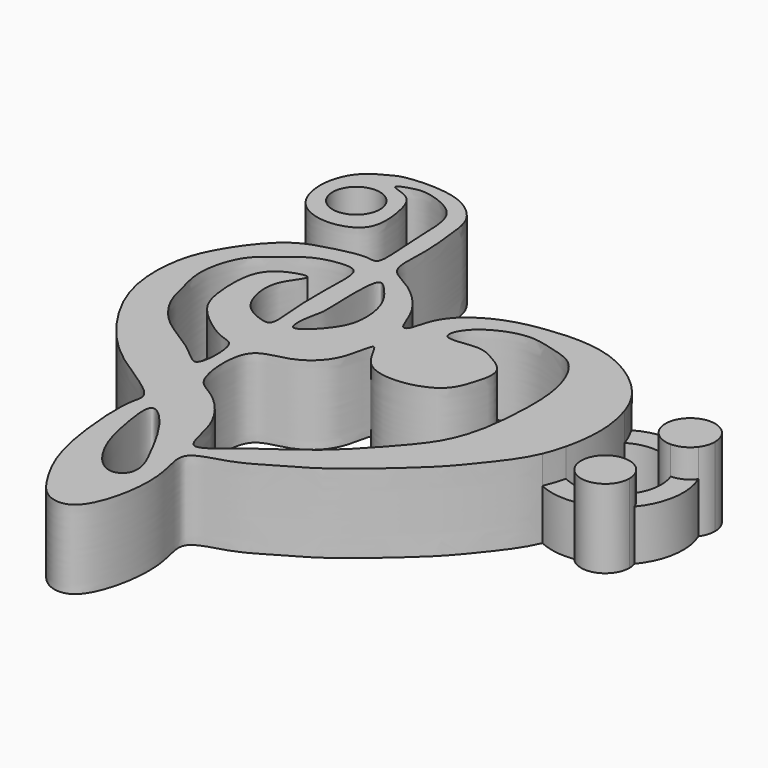
from build123d import *

# Parameters (mm, degrees)
F0_R     = 1.905
F1_DEPTH = 6.35
F2_DEPTH = 4.064


with BuildPart() as f1:
    # F0 (on Top) → F1 (new body)
    with BuildSketch(Plane.XY):
        with BuildLine():
            add(Edge.make_bspline(
                [(-13.0686489865, 11.6218319163), (-12.7707330076, 11.961798695), (-13.1510446007, 14.8679853831), (-13.0424482701, 17.9501966027), (-13.727905646, 19.9168686636), (-16.0918095447, 20.8480597025), (-17.2623130573, 20.8592815915), (-19.1906763862, 20.1534250339), (-16.7723895054, 19.8157318864), (-16.1507483292, 17.6667445326), (-15.8565671423, 14.4852164796), (-19.0830796184, 13.4633520878), (-21.9024858498, 14.6520913597), (-22.639414685, 17.8389155952), (-21.552502801, 20.3658088456), (-19.7462208625, 21.2348963002), (-18.9402522512, 21.7214886395), (-14.5828082764, 21.9866575573), (-12.0120729222, 19.7486253219), (-11.7943656291, 17.5624606189), (-11.3884073963, 14.4590138313), (-11.8153693787, 11.1950337983), (-9.5526412523, 10.4055979731), (-6.886236355, 7.9193365313), (-6.3591051489, 5.48579156), (-5.6976828179, 5.5802281906), (-5.4126557087, 7.4145140879), (-4.1655100341, 9.0922831468), (-1.6661650496, 10.5116266525), (1.233701337, 11.0393527576), (4.1116716879, 11.2210594468), (7.2322592185, 10.5704836127), (9.8548458465, 8.6970342261), (10.8299503671, 7.4429476047), (11.0950684281, 7.015597002)],
                knots=[0, 0, 0, 0, 0.0174055412, 0.0360201727, 0.0498159963, 0.0650524651, 0.0769089776, 0.0878328669, 0.0998121797, 0.1148348188, 0.1316272092, 0.1483540463, 0.1651085789, 0.1824021566, 0.1987259941, 0.2122148314, 0.2220664777, 0.2424297438, 0.2603004645, 0.2747249693, 0.2928628236, 0.309969569, 0.3242914765, 0.3438453151, 0.3586554069, 0.3642041694, 0.3771717261, 0.3919044019, 0.4087139116, 0.4260081171, 0.442995333, 0.4608586478, 0.4800941687, 0.4892831772, 0.4892831772, 0.4892831772, 0.4892831772], degree=3))
            add(Edge.make_bspline(
                [(11.4597279959, -2.4118516051), (11.3801153672, -2.5988769232), (10.8415906764, -3.7533572985), (9.3782470502, -5.6176152362), (7.6197128741, -7.8042819073), (4.9700188396, -10.1772388926), (2.0159809222, -12.6953096881), (-0.7817555096, -14.1750721076), (-3.0735086367, -15.6649063041), (-6.6448545126, -16.2604339945), (-5.3517281249, -19.3623385219), (-5.5755042332, -23.4307961024), (-6.9722488348, -26.7371207582), (-9.3401460238, -26.5753856706), (-10.8397763768, -24.5441683261), (-12.4870908457, -21.432961057), (-13.2193584866, -16.9377361119), (-13.3534050362, -13.1064532395), (-12.6633761563, -11.6244508266), (-16.5980449076, -9.3325064599), (-19.6810790288, -6.8342604871), (-23.1547289411, -1.5451237152), (-23.202456029, 3.4404371704), (-22.1742470854, 6.426380904), (-19.3943471923, 10.2984697231), (-16.6939297674, 11.1081112535), (-14.0490237493, 11.7781712589), (-13.2277306845, 11.4402958582), (-13.0686489865, 11.6218319163)],
                knots=[0.5460824632, 0.5460824632, 0.5460824632, 0.5460824632, 0.549511558, 0.5675100943, 0.5843577714, 0.6033210365, 0.6232567239, 0.641012514, 0.6580943552, 0.6749467864, 0.6909728326, 0.7119519288, 0.7298992113, 0.743324066, 0.7587990032, 0.7776744973, 0.799599726, 0.8190546342, 0.8301274451, 0.8500224241, 0.8710505929, 0.8959266034, 0.9178527602, 0.9358451637, 0.9571594825, 0.9742491387, 0.9907057585, 1, 1, 1, 1], degree=3))
            add(Edge.make_bspline(
                [(12.0093829859, -0.7091933699), (11.8728345677, -1.286852004), (11.6949503278, -1.8592692802), (11.4597279959, -2.4118516051)],
                knots=[0.5359509089, 0.5359509089, 0.5359509089, 0.5359509089, 0.5460824632, 0.5460824632, 0.5460824632, 0.5460824632], degree=3))
            add(Edge.make_bspline(
                [(11.8463626646, 5.4053428165), (12.1056389146, 4.6466382374), (12.4816565418, 2.8232541921), (12.321965699, 0.7757781398), (12.0669719872, -0.4655670846), (12.0093829859, -0.7091933699)],
                knots=[0.5000560772, 0.5000560772, 0.5000560772, 0.5000560772, 0.5142619534, 0.5316779477, 0.5359509089, 0.5359509089, 0.5359509089, 0.5359509089], degree=3))
            add(Edge.make_bspline(
                [(11.0950684281, 7.015597002), (11.3161119517, 6.6592912767), (11.5779458047, 6.1368405532), (11.7895733016, 5.5715221321), (11.8463626646, 5.4053428165)],
                knots=[0.4892831772, 0.4892831772, 0.4892831772, 0.4892831772, 0.4969445595, 0.5000560772, 0.5000560772, 0.5000560772, 0.5000560772], degree=3))
        make_face()
        with BuildLine():
            add(Edge.make_bspline(
                [(-11.6512700915, -12.9060419276), (-11.9941468043, -13.1681710536), (-11.5320664777, -16.1205152908), (-10.9199947216, -18.5300988368), (-9.597431014, -20.714917878), (-8.1666103116, -21.4484548164), (-7.0995100758, -20.7580851205), (-7.0720709083, -19.3864704003), (-8.0014077681, -17.5249735483), (-9.7695779559, -14.1060350316), (-11.3776613031, -12.6968681054), (-11.6512700915, -12.9060419276)],
                knots=[0, 0, 0, 0, 0.1295994097, 0.2604455958, 0.3793498417, 0.4699367619, 0.5465175339, 0.6293808269, 0.7394813862, 0.896582252, 1, 1, 1, 1], degree=3))
        make_face(mode=Mode.SUBTRACT)
        with BuildLine():
            add(Edge.make_bspline(
                [(-6.3199140131, -15.2518386021), (-6.8593336291, -15.045464478), (-6.9695773684, -11.9531994053), (-9.8649973588, -8.8540384181), (-11.9161160424, -8.2829265335), (-12.288764129, -2.6066430249), (-9.0806541646, -2.5780797933), (-6.3392370923, -0.6246257895), (-6.1087788053, 3.615634008), (-4.9122455372, -0.3133942048), (-1.222739141, -0.5481987236), (1.3469504829, 0.6327144061), (2.0075048028, 2.4950696166), (2.6105338, 4.7491119398), (0.5911029061, 5.9132897747), (-0.6912636487, 6.5908014949), (-3.7829979831, 5.7694448939), (-2.8339605437, 8.3595775213), (0.6150763545, 9.8528204056), (2.8451794906, 9.1516540061), (5.0089863324, 8.6572904049), (6.3185328043, 6.4323801531), (6.8928079508, 3.6977151001), (6.7361435566, -0.0088301254), (6.3983668063, -2.49386758), (5.5499256641, -5.0290393191), (3.5430185466, -7.3854801384), (1.417011187, -9.7431285513), (-0.9661134496, -11.7463490865), (-3.7412707511, -13.4850162448), (-5.8033912793, -15.4494527111), (-6.3199140131, -15.2518386021)],
                knots=[0, 0, 0, 0, 0.0367480799, 0.0797971829, 0.1092052072, 0.15332524, 0.1866739045, 0.22534854, 0.2585929149, 0.2901400147, 0.3293363935, 0.3634619148, 0.3924275789, 0.4223259456, 0.451733962, 0.4784187504, 0.5101739794, 0.5368587701, 0.5770486926, 0.608957374, 0.6390625819, 0.6712695106, 0.7067047864, 0.7469429386, 0.7803249129, 0.8139119634, 0.850721139, 0.8881697465, 0.9247723049, 0.9648117752, 1, 1, 1, 1], degree=3))
        make_face(mode=Mode.SUBTRACT)
        with BuildLine():
            add(Edge.make_bspline(
                [(-15.1277827099, 7.1736029349), (-15.0056093076, 6.9577332912), (-16.5558726976, 5.3986340723), (-16.1504621438, 2.7901502426), (-15.2684237613, 1.4175927395), (-13.85400103, 0.7981625476), (-12.7346268175, 0.6152542547), (-13.2322675757, 3.7415759168), (-13.1307600013, 7.4293288525), (-13.0886486581, 9.7855748474), (-14.4315260528, 10.0354121912), (-16.7005347728, 9.5729110347), (-18.0367032607, 8.213930896), (-20.1549953784, 6.971358812), (-21.0593200446, 3.5088042097), (-20.4179841431, 1.33084421), (-19.9594183886, -0.8491484934), (-18.3142495151, -3.0880201367), (-16.1205334344, -4.318306911), (-14.418130418, -5.5471613209), (-12.9764827126, -7.0012105866), (-12.8644247041, -2.7108947452), (-14.380148848, -2.7529063392), (-17.5424193631, -0.4511327674), (-18.2848119967, 1.7279221376), (-18.4215235365, 5.5067497663), (-16.8552891086, 6.9383100498), (-15.2333133888, 7.3600663519), (-15.1277827099, 7.1736029349)],
                knots=[0, 0, 0, 0, 0.0364646976, 0.0788891786, 0.1117744755, 0.1439693508, 0.165517956, 0.2076173974, 0.2611260696, 0.2978148768, 0.3245680045, 0.3637236926, 0.3996897196, 0.4397297688, 0.4874520606, 0.5267783033, 0.565294431, 0.6081007788, 0.6496281737, 0.6891214302, 0.7161705298, 0.7614106674, 0.7909062222, 0.8406647315, 0.881423559, 0.9301436777, 0.9685026018, 1, 1, 1, 1], degree=3))
        make_face(mode=Mode.SUBTRACT)
        with BuildLine():
            add(Edge.make_bspline(
                [(-11.2136574462, 9.3703055754), (-11.6513975829, 8.8545701437), (-11.3191358553, 4.119537716), (-11.5137287981, 3.8710349732), (-12.1621521498, 0.0832837894), (-9.3910031023, 2.7968929016), (-8.6893962792, 4.5953920409), (-8.9746796231, 7.1866660965), (-10.2292240733, 8.8393817463), (-11.027093781, 9.5901106249), (-11.2136574462, 9.3703055754)],
                knots=[0, 0, 0, 0, 0.1896588816, 0.2702065822, 0.400399582, 0.5306714703, 0.6579100379, 0.7909034848, 0.9191678964, 1, 1, 1, 1], degree=3))
        make_face(mode=Mode.SUBTRACT)
        with Locations((-19.2378386855, 17.2088313848)):
            Circle(F0_R, mode=Mode.SUBTRACT)
    extrude(amount=F1_DEPTH)



with BuildPart() as f1b:
    # F0 (on Top) → F1, piece 2 (new body)
    with BuildSketch(Plane.XY):
        with BuildLine():
            ThreePointArc((18.9468186349, 5.6433514692), (17.854770444, 7.4235418204), (15.7729848939, 7.2567609431))
            ThreePointArc((15.7729848939, 7.2567609431), (17.4349088396, 6.1250716437), (18.5549745907, 4.4552918424))
            ThreePointArc((18.5549745907, 4.4552918424), (18.8463293089, 5.0178461871), (18.9468186349, 5.6433514692))
        make_face()
        with BuildLine():
            ThreePointArc((18.5549745907, 4.4552918424), (17.4349088396, 6.1250716437), (15.7729848939, 7.2567609431))
            ThreePointArc((15.7729848939, 7.2567609431), (15.1780943295, 6.5647766105), (14.953156221, 5.6803898471))
            ThreePointArc((14.953156221, 5.6803898471), (16.1791594934, 4.8780538765), (16.97292155, 3.6464821851))
            ThreePointArc((16.97292155, 3.6464821851), (17.8588562806, 3.865244049), (18.5549745907, 4.4552918424))
        make_face()
        with BuildLine():
            ThreePointArc((16.97292155, 3.6464821851), (16.1791594934, 4.8780538765), (14.953156221, 5.6803898471))
            ThreePointArc((14.953156221, 5.6803898471), (15.5328034922, 4.2361921707), (16.97292155, 3.6464821851))
        make_face()
    extrude(amount=F1_DEPTH)


with BuildPart() as f1c:
    # F0 (on Top) → F1, piece 3 (new body)
    with BuildSketch(Plane.XY):
        with BuildLine():
            ThreePointArc((17.7532230883, -0.9849767089), (16.2488376586, -2.2333594131), (14.3939577022, -2.8506561365))
            ThreePointArc((14.3939577022, -2.8506561365), (16.560924599, -3.4645039291), (17.8614974564, -1.6257367097))
            ThreePointArc((17.8614974564, -1.6257367097), (17.8342383484, -1.3008149047), (17.7532230883, -0.9849767089))
        make_face()
        with BuildLine():
            ThreePointArc((14.0301632844, -1.1119022121), (14.0025831274, -2.0251075132), (14.3939577022, -2.8506561365))
            ThreePointArc((14.3939577022, -2.8506561365), (16.2488376586, -2.2333594131), (17.7532230883, -0.9849767089))
            ThreePointArc((17.7532230883, -0.9849767089), (17.2592519978, -0.2164084628), (16.4694393351, 0.2428306307))
            ThreePointArc((16.4694393351, 0.2428306307), (15.3895824939, -0.6862200225), (14.0301632844, -1.1119022121))
        make_face()
        with BuildLine():
            ThreePointArc((16.4694393351, 0.2428306307), (14.9645352831, 0.0791024447), (14.0301632844, -1.1119022121))
            ThreePointArc((14.0301632844, -1.1119022121), (15.3895824939, -0.6862200225), (16.4694393351, 0.2428306307))
        make_face()
    extrude(amount=F1_DEPTH)


with BuildPart() as f1_1:
    add(f1.part)

    add(f1b.part)  # F2 merges F1b

    add(f1c.part)  # F2 merges F1c
    # F0 (on Top) → F2 (join)
    with BuildSketch(Plane.XY):
        with BuildLine():
            ThreePointArc((15.7729848939, 7.2567609431), (13.4059028768, 7.6817029542), (11.0950684281, 7.015597002))
            add(Edge.make_bspline(
                [(11.0950684281, 7.015597002), (11.3161119517, 6.6592912767), (11.5779458047, 6.1368405532), (11.7895733016, 5.5715221321), (11.8463626646, 5.4053428165)],
                knots=[0.4892831772, 0.4892831772, 0.4892831772, 0.4892831772, 0.4969445595, 0.5000560772, 0.5000560772, 0.5000560772, 0.5000560772], degree=3))
            ThreePointArc((11.8463626646, 5.4053428165), (13.3676764828, 5.9052593853), (14.953156221, 5.6803898471))
            ThreePointArc((14.953156221, 5.6803898471), (15.1780943295, 6.5647766105), (15.7729848939, 7.2567609431))
        make_face()
        with BuildLine():
            ThreePointArc((17.7532230883, -0.9849767089), (18.9158716867, 1.6228924242), (18.5549745907, 4.4552918424))
            ThreePointArc((18.5549745907, 4.4552918424), (17.8588562806, 3.865244049), (16.97292155, 3.6464821851))
            ThreePointArc((16.97292155, 3.6464821851), (17.1647708206, 1.8790386845), (16.4694393351, 0.2428306307))
            ThreePointArc((16.4694393351, 0.2428306307), (17.2592519978, -0.2164084628), (17.7532230883, -0.9849767089))
        make_face()
        with BuildLine():
            add(Edge.make_bspline(
                [(12.0093829859, -0.7091933699), (11.8728345677, -1.286852004), (11.6949503278, -1.8592692802), (11.4597279959, -2.4118516051)],
                knots=[0.5359509089, 0.5359509089, 0.5359509089, 0.5359509089, 0.5460824632, 0.5460824632, 0.5460824632, 0.5460824632], degree=3))
            ThreePointArc((11.4597279959, -2.4118516051), (12.8954750833, -2.8410061029), (14.3939577022, -2.8506561365))
            ThreePointArc((14.3939577022, -2.8506561365), (14.0025831274, -2.0251075132), (14.0301632844, -1.1119022121))
            ThreePointArc((14.0301632844, -1.1119022121), (12.9896845027, -1.0615316016), (12.0093829859, -0.7091933699))
        make_face()
    extrude(amount=F2_DEPTH)


solid = f1_1.part
